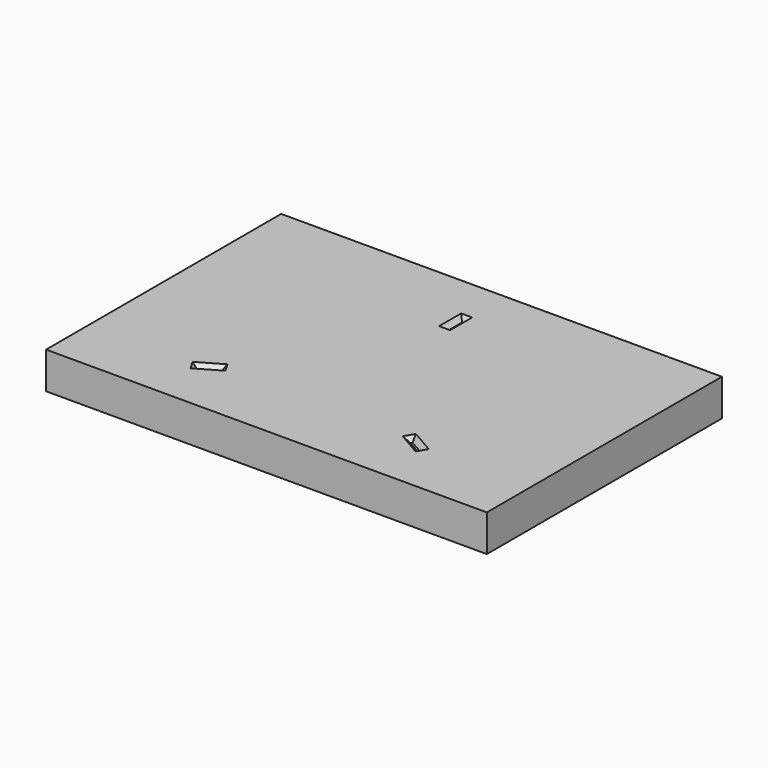
from build123d import *

# Parameters (mm, degrees)
F0_W     = 304.8
F0_H     = 203.2
F1_DEPTH = 25.4
F2_W     = 7.62
F2_H     = 19.05
F3_DEPTH = 3.175
F3_TAPER = 45


with BuildPart() as f1:
    # F0 (on Top) → F1 (new body)
    with BuildSketch(Plane.XY):
        Rectangle(F0_W, F0_H)
    extrude(amount=F1_DEPTH)

    # F2 (on face) → F3 (cut)
    with BuildSketch(Plane.XY.offset(25.4)):
        Polygon((-65.1465051114, -53.8504432116), (-81.6442890535, -63.3754432116), (-77.8342890535, -69.9745567884), (-61.3365051114, -60.4495567884), align=None)
        Polygon((61.3365051114, -60.4495567884), (77.8342890535, -69.9745567884), (81.6442890535, -63.3754432116), (65.1465051114, -53.8504432116), align=None)
        with Locations((0, 61.9125)):
            Rectangle(F2_W, F2_H)
    extrude(amount=-F3_DEPTH, taper=F3_TAPER, mode=Mode.SUBTRACT)


solid = f1.part
